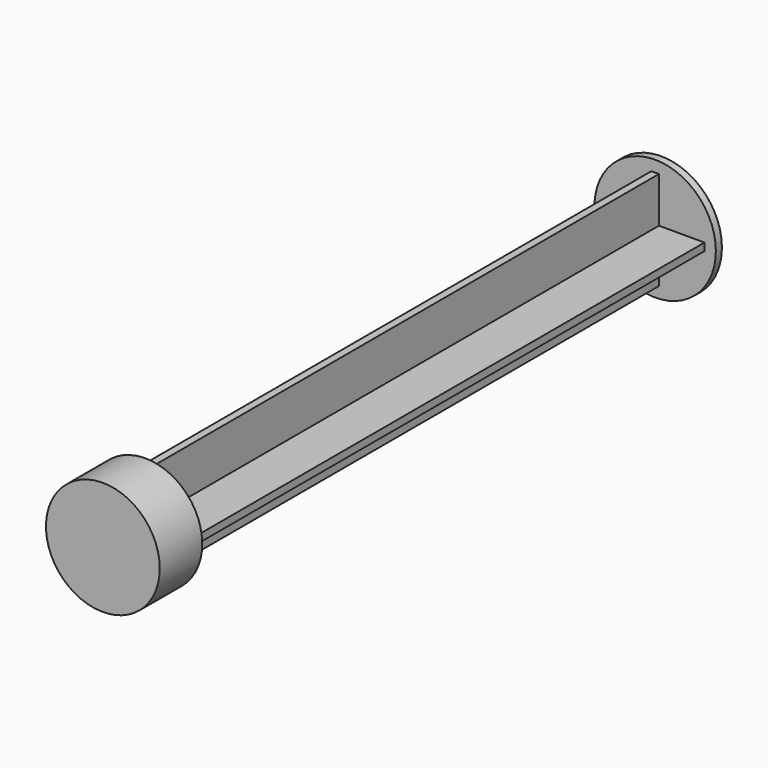
from build123d import *

# Parameters (mm, degrees)
F0_R     = 8
F1_DEPTH = 1
F2_W     = 6
F2_H     = 0.5
F2_W_2   = 0.5
F2_H_2   = 6
F3_DEPTH = 84
F4_R     = 7.5
F5_DEPTH = 7


with BuildPart() as f1:
    # F0 (on Front) → F1 (new body)
    with BuildSketch(Plane.XZ):
        Circle(F0_R)
        Circle(F0_R)
    extrude(amount=F1_DEPTH)

    # F2 (on face) → F3 (join)
    with BuildSketch(Plane.XZ.offset(1)):
        with Locations((-3.5, 0.25)):
            Rectangle(F2_W, F2_H)
        with Locations((-3.5, -0.25)):
            Rectangle(F2_W, F2_H)
        with Locations((-0.25, 0.25)):
            Rectangle(F2_W_2, F2_H)
        with Locations((-0.25, -0.25)):
            Rectangle(F2_W_2, F2_H)
        with Locations((0.25, 0.25)):
            Rectangle(F2_W_2, F2_H)
        with Locations((0.25, -0.25)):
            Rectangle(F2_W_2, F2_H)
        with Locations((-0.25, -3.5)):
            Rectangle(F2_W_2, F2_H_2)
        with Locations((-0.25, 3.5)):
            Rectangle(F2_W_2, F2_H_2)
        with Locations((3.5, 0.25)):
            Rectangle(F2_W, F2_H)
        with Locations((3.5, -0.25)):
            Rectangle(F2_W, F2_H)
        with Locations((0.25, 3.5)):
            Rectangle(F2_W_2, F2_H_2)
        with Locations((0.25, -3.5)):
            Rectangle(F2_W_2, F2_H_2)
    extrude(amount=F3_DEPTH)

    # F4 (on face) → F5 (join)
    with BuildSketch(Plane.XZ.offset(85)):
        Circle(F4_R)
    extrude(amount=F5_DEPTH)


solid = f1.part
